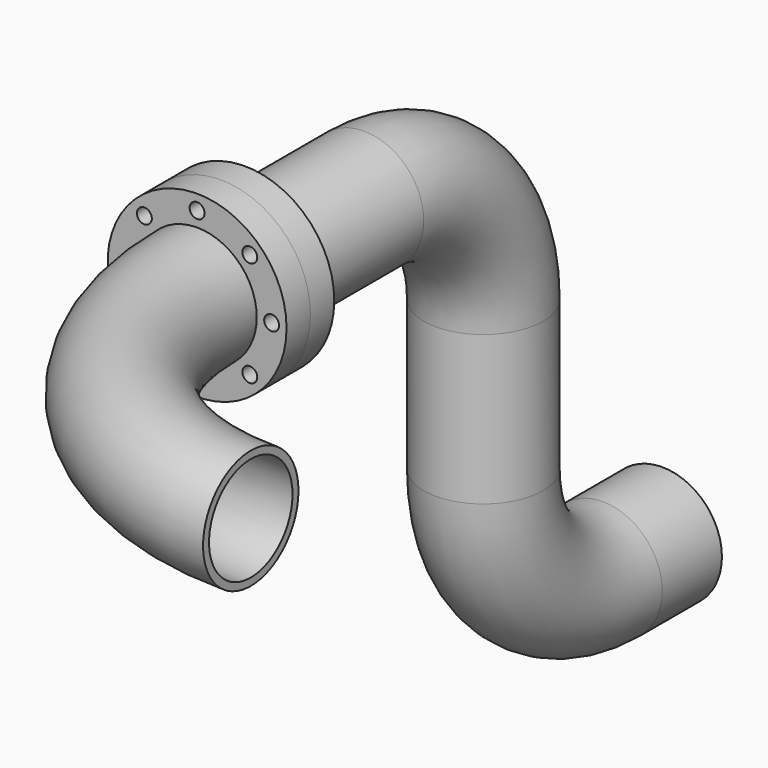
from build123d import *

# Parameters (mm, degrees)
F0_R        = 60
F0_R_2      = 5
F0_R_3      = 35
F1_DEPTH    = 20
F2_R        = 40
F2_R_2      = 35
F1_FACE_R   = 60
F1_FACE_R_2 = 5
F1_FACE_R_3 = 35
F5_DEPTH    = 20
F6_R        = 40
F6_R_2      = 35
F7_ANGLE    = -90


with BuildPart() as f1:
    # F0 (on Front) → F1 (new body)
    with BuildSketch(Plane.XZ):
        Circle(F0_R)
        with Locations((-35.355339, -35.355339)):
            Circle(F0_R_2, mode=Mode.SUBTRACT)
        with Locations((0, -50)):
            Circle(F0_R_2, mode=Mode.SUBTRACT)
        with Locations((35.355339, -35.355339)):
            Circle(F0_R_2, mode=Mode.SUBTRACT)
        with Locations((-50, 0)):
            Circle(F0_R_2, mode=Mode.SUBTRACT)
        with Locations((-35.355339, 35.355339)):
            Circle(F0_R_2, mode=Mode.SUBTRACT)
        Circle(F0_R_3, mode=Mode.SUBTRACT)
        with Locations((50, 0)):
            Circle(F0_R_2, mode=Mode.SUBTRACT)
        with Locations((0, 50)):
            Circle(F0_R_2, mode=Mode.SUBTRACT)
        with Locations((35.355339, 35.355339)):
            Circle(F0_R_2, mode=Mode.SUBTRACT)
    extrude(amount=F1_DEPTH)

    # F4: sweep along a path in F3
    with BuildLine(Plane.YZ) as f4_path:
        Line((0, 0), (100, 0))
        ThreePointArc((100, 0), (170.710678, -29.289322), (200, -100))
        Line((200, -100), (200, -200))
        ThreePointArc((200, -200), (229.289322, -270.710678), (300, -300))
        Line((300, -300), (350, -300))
    # F2 (on Front) → F4 (sweep)
    with BuildSketch(Plane.XZ):
        Circle(F2_R)
        Circle(F2_R_2, mode=Mode.SUBTRACT)
    sweep(path=f4_path.line)


with BuildPart() as f5:
    # F1_face (on face) → F5 (new body)
    with BuildSketch(Plane.XZ.offset(20)):
        Circle(F1_FACE_R)
        with Locations((-35.355339, -35.355339)):
            Circle(F1_FACE_R_2, mode=Mode.SUBTRACT)
        with Locations((0, -50)):
            Circle(F1_FACE_R_2, mode=Mode.SUBTRACT)
        with Locations((35.355339, -35.355339)):
            Circle(F1_FACE_R_2, mode=Mode.SUBTRACT)
        with Locations((-50, 0)):
            Circle(F1_FACE_R_2, mode=Mode.SUBTRACT)
        with Locations((-35.355339, 35.355339)):
            Circle(F1_FACE_R_2, mode=Mode.SUBTRACT)
        Circle(F1_FACE_R_3, mode=Mode.SUBTRACT)
        with Locations((50, 0)):
            Circle(F1_FACE_R_2, mode=Mode.SUBTRACT)
        with Locations((0, 50)):
            Circle(F1_FACE_R_2, mode=Mode.SUBTRACT)
        with Locations((35.355339, 35.355339)):
            Circle(F1_FACE_R_2, mode=Mode.SUBTRACT)
    extrude(amount=F5_DEPTH)

    # F6 (on face) → F7 (revolve)
    with BuildSketch(Plane.XZ.offset(40)):
        Circle(F6_R)
        Circle(F6_R_2, mode=Mode.SUBTRACT)
    revolve(axis=Axis((180, -40, -20.548332), (0, 0, -1)), revolution_arc=F7_ANGLE)


solid = Compound([f1.part, f5.part])
